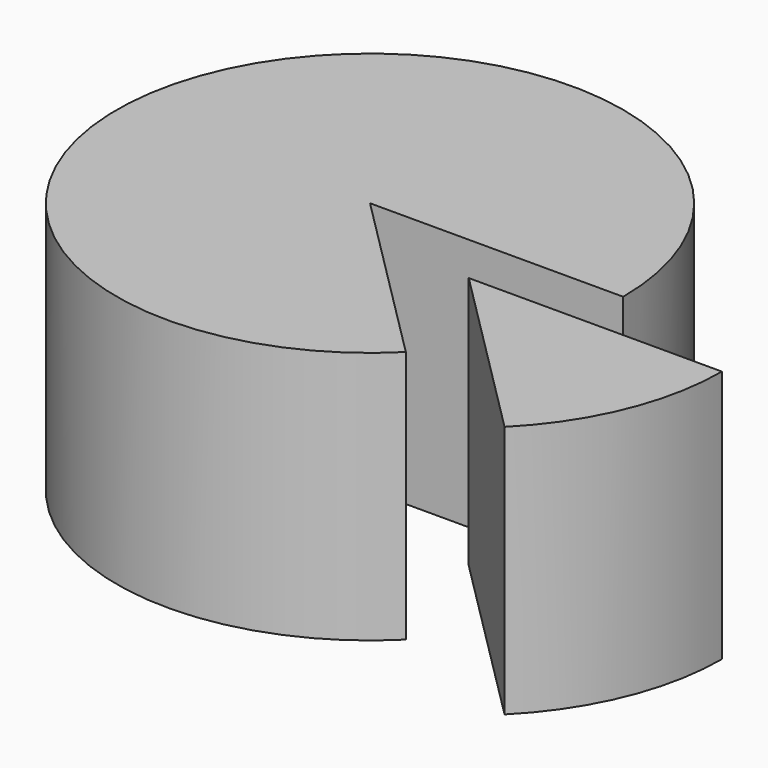
from build123d import *

# Parameters (mm, degrees)
CYLINDER_W                  = 20
CYLINDER_H                  = 20
CYLINDER_ANGLE              = 315
CYLINDER001_W               = 20
CYLINDER001_H               = 20
CYLINDER001_ANGLE           = 45
CYLINDER001_PLACEMENT_ANGLE = 45


with BuildPart() as past_s:
    # Cylinder → Cylinder (revolve)
    with BuildSketch(Plane.XZ):
        with Locations((10, 10)):
            Rectangle(CYLINDER_W, CYLINDER_H)
    revolve(axis=Axis((0, 0, 0), (0, 0, 1)), revolution_arc=CYLINDER_ANGLE)


with BuildPart() as obj1:
    # Cylinder001 → Cylinder001 (revolve)
    with BuildSketch(Plane.XZ):
        with Locations((10, 10)):
            Rectangle(CYLINDER001_W, CYLINDER001_H)
    revolve(axis=Axis((0, 0, 0), (0, 0, 1)), revolution_arc=CYLINDER001_ANGLE)


with BuildPart() as obj1_1:
    # Cylinder001 placement: moved
    add(obj1.part.moved(Location((11, -4, 0))).rotate(Axis((11, -4, 0), (0, 0, -1)), CYLINDER001_PLACEMENT_ANGLE))


solid = Compound([past_s.part, obj1_1.part])
